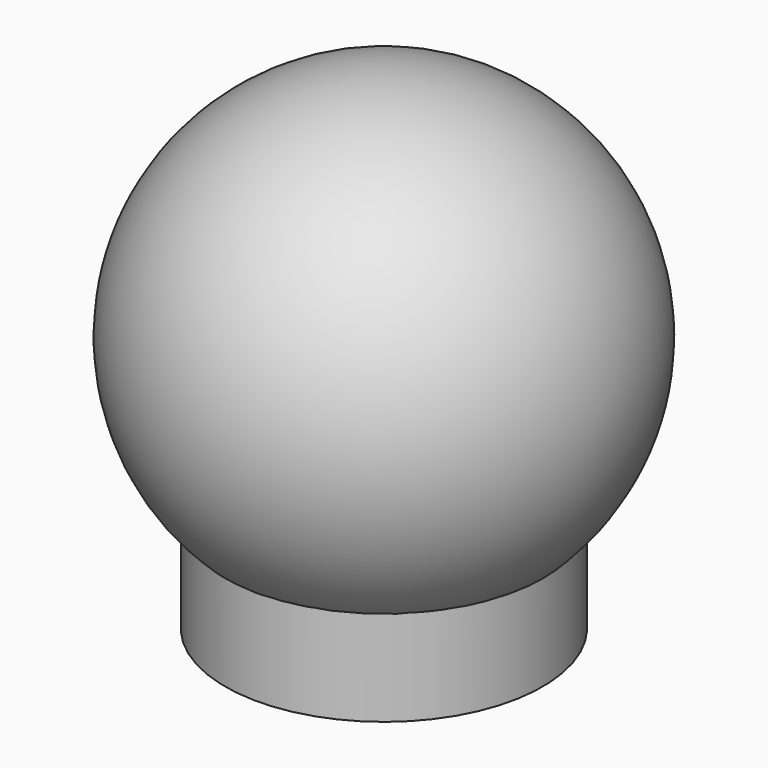
from build123d import *

# Parameters (mm, degrees)
F1_DEPTH      = 5
F1_DEPTH_BACK = 17
F2_DEPTH      = 10
F2_DEPTH_BACK = 25


with BuildPart() as f1:
    # F0 (on Top) → F1 (new body, two sides)
    with BuildSketch(Plane.XY) as f1_sk:
        with BuildLine():
            Line((6.05, 0), (10.5, 0))
            ThreePointArc((10.5, 0), (0, 10.5), (-10.5, 0))
            Line((-10.5, 0), (-6.05, 0))
            ThreePointArc((-6.05, 0), (0, 6.05), (6.05, 0))
        make_face()
        with BuildLine():
            ThreePointArc((-10.5, 0), (0, -10.5), (10.5, 0))
            Line((10.5, 0), (6.05, 0))
            ThreePointArc((6.05, 0), (0, -6.05), (-6.05, 0))
            Line((-6.05, 0), (-10.5, 0))
        make_face()
    extrude(amount=F1_DEPTH)
    extrude(f1_sk.sketch, amount=-F1_DEPTH_BACK)


with BuildPart() as f2:
    # F0 (on Top) → F2 (new body, two sides)
    with BuildSketch(Plane.XY) as f2_sk:
        with BuildLine():
            Line((-6.05, 0), (6.05, 0))
            ThreePointArc((6.05, 0), (0, 6.05), (-6.05, 0))
        make_face()
        with BuildLine():
            ThreePointArc((-6.05, 0), (0, -6.05), (6.05, 0))
            Line((6.05, 0), (-6.05, 0))
        make_face()
    extrude(amount=F2_DEPTH)
    extrude(f2_sk.sketch, amount=-F2_DEPTH_BACK)


with BuildPart() as f3:
    # F0 (on Top) → F3 (revolve)
    with BuildSketch(Plane.XY):
        with BuildLine():
            Line((10.5, 0), (15, 0))
            ThreePointArc((15, 0), (0, 15), (-15, 0))
            Line((-15, 0), (-10.5, 0))
            ThreePointArc((-10.5, 0), (0, 10.5), (10.5, 0))
        make_face()
    revolve(axis=Axis((0, 0, 0), (1, 0, 0)))

    # F4: cut F2
    add(f2.part, mode=Mode.SUBTRACT)


with BuildPart() as f1_1:
    add(f1.part)

    # F4: cut F2
    add(f2.part, mode=Mode.SUBTRACT)


solid = Compound([f3.part, f1_1.part])
